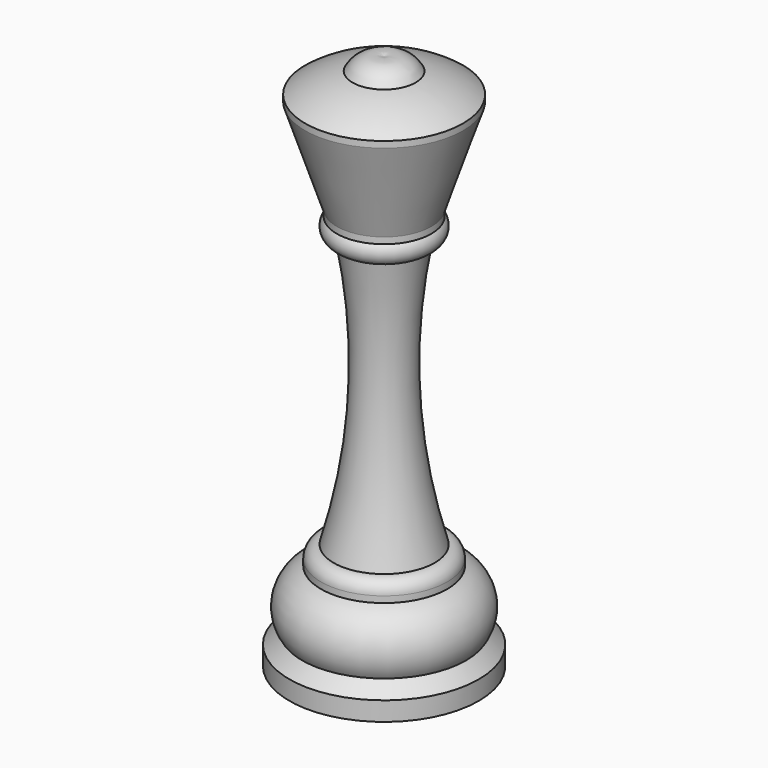
from build123d import *


with BuildPart() as f1:
    # F0 (on Front) → F1 (revolve)
    with BuildSketch(Plane.XZ):
        with BuildLine():
            ThreePointArc((12.5, -5.27), (8.934301, -3.212292), (5, -2))
            ThreePointArc((5, -2), (2.867815, -0.080462), (0, 0))
            Line((0, 0), (0, -85))
            Line((0, -85), (15, -85))
            Line((15, -85), (15, -81.99))
            Line((15, -81.99), (13, -79.99))
            ThreePointArc((13, -79.99), (13.692064, -74.775902), (10.009813, -71.02))
            Line((10.009813, -71.02), (10.009813, -70.02))
            ThreePointArc((10.009813, -70.02), (9.420553, -68.602321), (8, -68.020024))
            ThreePointArc((8, -68.020024), (4.460942, -46.924694), (6, -25.59))
            ThreePointArc((6, -25.59), (7.822793, -24.414696), (7.5, -22.27))
            Line((7.5, -22.27), (7.5, -21.27))
            Line((7.5, -21.27), (12.5, -6.27))
            Line((12.5, -6.27), (12.5, -5.27))
        make_face()
    revolve(axis=Axis((0, 0, -42.5), (0, 0, 1)))


solid = f1.part
